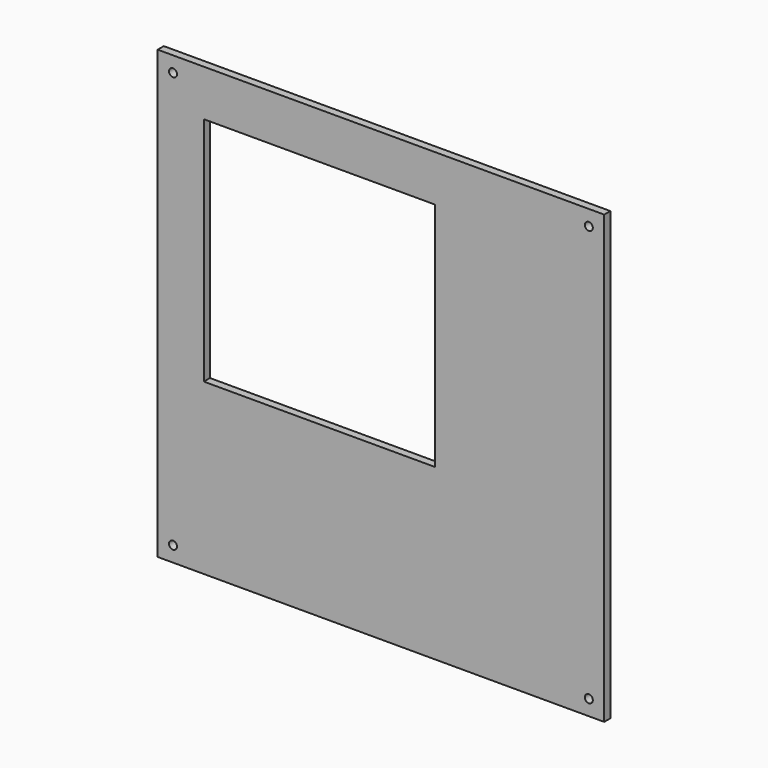
from build123d import *

# Parameters (mm, degrees)
F0_W     = 290
F0_H     = 290
F1_DEPTH = 5
F2_R     = 2.6
F3_DEPTH = 5.001
F4_W     = 150
F4_H     = 150
F5_DEPTH = 5.001


with BuildPart() as f1:
    # F0 (on Front) → F1 (new body)
    with BuildSketch(Plane.XZ):
        Rectangle(F0_W, F0_H)
    extrude(amount=F1_DEPTH)

    # F2 (on face) → F3 (cut, through all)
    with BuildSketch(Plane.XZ.offset(5)):
        with Locations((-135, 135)):
            Circle(F2_R)
        with Locations((-135, -135)):
            Circle(F2_R)
        with Locations((135, 135)):
            Circle(F2_R)
        with Locations((135, -135)):
            Circle(F2_R)
        with Locations((405, 135)):
            Circle(F2_R)
        with Locations((405, -135)):
            Circle(F2_R)
    extrude(amount=-F3_DEPTH, mode=Mode.SUBTRACT)

    # F4 (on face) → F5 (cut, through all)
    with BuildSketch(Plane.XZ.offset(5)):
        with Locations((-40, 40)):
            Rectangle(F4_W, F4_H)
    extrude(amount=-F5_DEPTH, mode=Mode.SUBTRACT)


solid = f1.part
